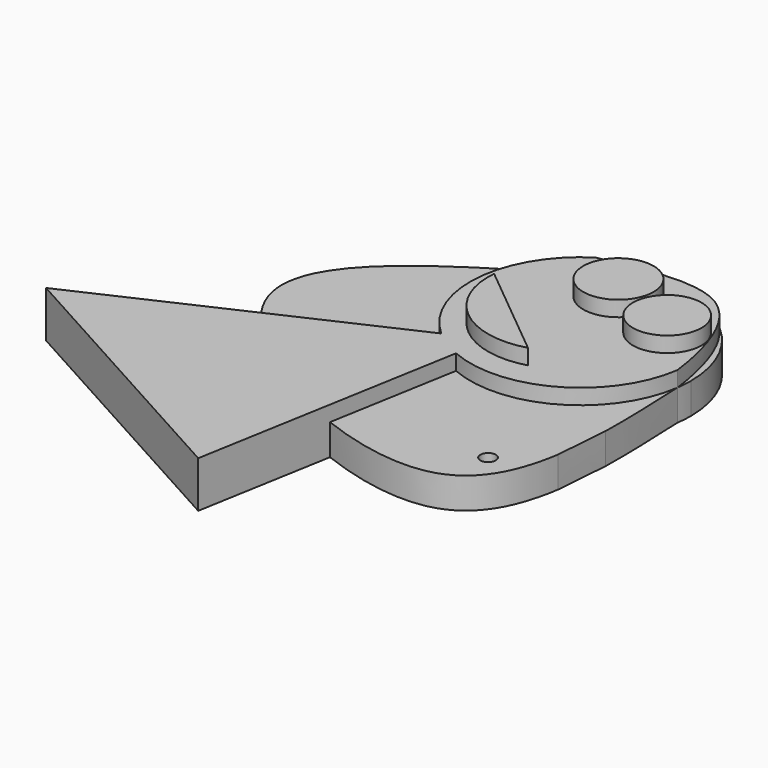
from build123d import *

# Parameters (mm, degrees)
F0_R     = 14.4552561753
F1_DEPTH = 25.4
F0_R_2   = 14.1055177091
F2_DEPTH = 25.4
F3_DEPTH = 19.05
F4_DEPTH = 12.7
F5_D     = 6.35


with BuildPart() as f1:
    # F0 (on Top) → F1 (new body)
    with BuildSketch(Plane.XY):
        with Locations((-81.2711715698, 73.8213211298)):
            Circle(F0_R)
    extrude(amount=F1_DEPTH)


with BuildPart() as f1b:
    # F0 (on Top) → F1, piece 2 (new body)
    with BuildSketch(Plane.XY):
        with Locations((-53.2777681947, 63.8881772757)):
            Circle(F0_R_2)
    extrude(amount=F1_DEPTH)


with BuildPart() as f2:
    # F0 (on Top) → F2 (new body)
    with BuildSketch(Plane.XY):
        with BuildLine():
            Line((-74.0470662713, 18.2860158384), (-114.6826595068, 51.6974963248))
            ThreePointArc((-114.6826595068, 51.6974963248), (-103.2133178037, 24.2301193795), (-74.0470662713, 18.2860158384))
        make_face()
    extrude(amount=F2_DEPTH)


with BuildPart() as f3:
    # F0 (on Top) → F3 (new body)
    with BuildSketch(Plane.XY):
        with BuildLine():
            add(Edge.make_bspline(
                [(-103.9305479169, 90.4016562837), (-85.5451875426, 94.1420875768), (-67.1577257905, 97.8824388379), (-54.9997537494, 90.4016562837)],
                knots=[0, 0, 0, 0, 0.3212337954, 0.3212337954, 0.3212337954, 0.3212337954], degree=3))
            ThreePointArc((-103.9305479169, 90.4016562837), (-124.7315260032, 55.7234288399), (-109.6310896018, 18.2102715683))
            ThreePointArc((-109.6310896018, 18.2102715683), (-103.7905878899, 13.807191904), (-97.3189082255, 10.3989763741))
            ThreePointArc((-97.3189082255, 10.3989763741), (-57.2090185765, 12.5701456796), (-34.5160862415, 45.7144973229))
            add(Edge.make_bspline(
                [(-53.4932820949, 89.3952534818), (-42.3206165187, 81.3231253274), (-36.7860243282, 63.3564941894), (-34.5160862415, 45.7144973229)],
                knots=[0.3347931008, 0.3347931008, 0.3347931008, 0.3347931008, 0.6432129986, 0.6432129986, 0.6432129986, 0.6432129986], degree=3))
            ThreePointArc((-53.4932820949, 89.3952534818), (-54.2414980931, 89.9059690015), (-54.9997537494, 90.4016562837))
        make_face()
        with BuildLine():
            ThreePointArc((-74.0470662713, 18.2860158384), (-103.2133178037, 24.2301193795), (-114.6826595068, 51.6974963248))
            Line((-114.6826595068, 51.6974963248), (-74.0470662713, 18.2860158384))
        make_face(mode=Mode.SUBTRACT)
        with Locations((-53.2777681947, 63.8881772757)):
            Circle(F0_R_2, mode=Mode.SUBTRACT)
        with Locations((-81.2711715698, 73.8213211298)):
            Circle(F0_R, mode=Mode.SUBTRACT)
        with BuildLine():
            add(Edge.make_bspline(
                [(-163.5967197374, -6.5658674452), (-149.7277033092, -20.9495587277), (-127.9072747806, -34.4993701413), (-106.6365792263, -42.7157834978)],
                knots=[0.3978120133, 0.3978120133, 0.3978120133, 0.3978120133, 0.5553003686, 0.5553003686, 0.5553003686, 0.5553003686], degree=3))
            Line((-163.5967197374, -6.5658674452), (-228.4622937441, -36.3462753594))
            Line((-228.4622937441, -36.3462753594), (-116.3808330894, -98.2622504234))
            Line((-116.3808330894, -98.2622504234), (-106.6365792263, -42.7157834978))
        make_face()
        with BuildLine():
            ThreePointArc((-97.3189082255, 10.3989763741), (-103.7905878899, 13.807191904), (-109.6310896018, 18.2102715683))
            Line((-109.6310896018, 18.2102715683), (-163.5967197374, -6.5658674452))
            add(Edge.make_bspline(
                [(-163.5967197374, -6.5658674452), (-149.7277033092, -20.9495587277), (-127.9072747806, -34.4993701413), (-106.6365792263, -42.7157834978)],
                knots=[0.3978120133, 0.3978120133, 0.3978120133, 0.3978120133, 0.5553003686, 0.5553003686, 0.5553003686, 0.5553003686], degree=3))
            Line((-106.6365792263, -42.7157834978), (-97.3189082255, 10.3989763741))
        make_face()
    extrude(amount=F3_DEPTH)

    # F0 (on Top) → F4 (join)
    with BuildSketch(Plane.XY):
        with BuildLine():
            ThreePointArc((-109.6310896018, 18.2102715683), (-124.7315260032, 55.7234288399), (-103.9305479169, 90.4016562837))
            add(Edge.make_bspline(
                [(-103.9305479169, 90.4016562837), (-145.1287182509, 66.6744327068), (-195.7123211671, 37.5058393875), (-170.1054887435, 0.1844399394), (-163.5967197374, -6.5658674452)],
                knots=[0, 0, 0, 0, 0.3239022785, 0.3978120133, 0.3978120133, 0.3978120133, 0.3978120133], degree=3))
            Line((-163.5967197374, -6.5658674452), (-109.6310896018, 18.2102715683))
        make_face()
        with BuildLine():
            ThreePointArc((-34.5160862415, 45.7144973229), (-57.2090185765, 12.5701456796), (-97.3189082255, 10.3989763741))
            Line((-97.3189082255, 10.3989763741), (-106.6365792263, -42.7157834978))
            add(Edge.make_bspline(
                [(-106.6365792263, -42.7157834978), (-88.7249650646, -49.6346557771), (-50.3292323273, -56.5087407704), (-38.1803516801, -32.3214083153), (-35.3982208139, -14.640254907)],
                knots=[0.5553003686, 0.5553003686, 0.5553003686, 0.5553003686, 0.6879180654, 0.8459071389, 0.8459071389, 0.8459071389, 0.8459071389], degree=3))
            add(Edge.make_bspline(
                [(-33.6551310256, 7.780247472), (-34.0817074351, 0.2913735883), (-34.7384191947, -7.1746038566), (-35.3982208139, -14.640254907)],
                knots=[0.8666301254, 0.8666301254, 0.8666301254, 0.8666301254, 1, 1, 1, 1], degree=3))
            add(Edge.make_bspline(
                [(-33.6551310256, 7.780247472), (-33.418672051, 19.8012809669), (-33.9699834553, 32.758318881), (-34.5160862415, 45.7144973229)],
                knots=[0.9073726977, 0.9073726977, 0.9073726977, 0.9073726977, 1, 1, 1, 1], degree=3))
        make_face()
        with BuildLine():
            ThreePointArc((-54.9997537494, 90.4016562837), (-79.4651508331, 97.5562834336), (-103.9305479169, 90.4016562837))
            add(Edge.make_bspline(
                [(-103.9305479169, 90.4016562837), (-85.5451875426, 94.1420875768), (-67.1577257905, 97.8824388379), (-54.9997537494, 90.4016562837)],
                knots=[0, 0, 0, 0, 0.3212337954, 0.3212337954, 0.3212337954, 0.3212337954], degree=3))
        make_face()
        with BuildLine():
            ThreePointArc((-34.0578689085, 52.149001509), (-39.2088890985, 73.1550635611), (-53.4932820949, 89.3952534818))
            add(Edge.make_bspline(
                [(-53.4932820949, 89.3952534818), (-42.3206165187, 81.3231253274), (-36.7860243282, 63.3564941894), (-34.5160862415, 45.7144973229)],
                knots=[0.3347931008, 0.3347931008, 0.3347931008, 0.3347931008, 0.6432129986, 0.6432129986, 0.6432129986, 0.6432129986], degree=3))
            ThreePointArc((-34.5160862415, 45.7144973229), (-34.1725681074, 48.9236020281), (-34.0578689085, 52.149001509))
        make_face()
    extrude(amount=F4_DEPTH)

    # F5 (through all)
    with Locations(Plane(origin=(0, 0, 0), x_dir=(1, 0, 0), z_dir=(0, 0, -1))):
        with Locations((-51.6138523817, 30.2527993917)):
            Hole(F5_D / 2)


solid = Compound([f1.part, f1b.part, f2.part, f3.part])
